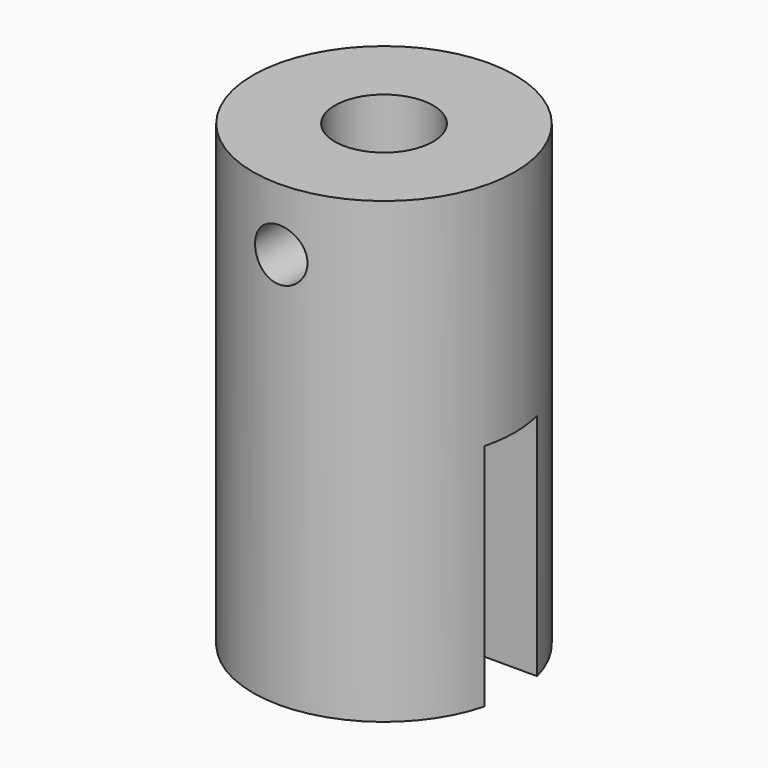
from build123d import *

# Parameters (mm, degrees)
F0_R     = 4
F1_DEPTH = 7
F2_R     = 1.5
F3_DEPTH = 3.8
F4_W     = 10
F4_H     = 2
F5_DEPTH = 7
F6_R     = 0.8
F7_DEPTH = 4.001


with BuildPart() as f1:
    # F0 (on Top) → F1 (new body, symmetric)
    with BuildSketch(Plane.XY):
        Circle(F0_R)
    extrude(amount=F1_DEPTH, both=True)

    # F2 (on face) → F3 (cut)
    with BuildSketch(Plane.XY.offset(7)):
        Circle(F2_R)
    extrude(amount=-F3_DEPTH, mode=Mode.SUBTRACT)

    # F4 (on face) → F5 (cut)
    with BuildSketch(Plane(origin=(0, 0, -7), x_dir=(1, 0, 0), z_dir=(0, 0, -1))):
        Rectangle(F4_W, F4_H)
    extrude(amount=-F5_DEPTH, mode=Mode.SUBTRACT)

    # F6 (on Front) → F7 (cut, through all)
    with BuildSketch(Plane.XZ):
        with Locations((0, 5.1)):
            Circle(F6_R)
    extrude(amount=F7_DEPTH, mode=Mode.SUBTRACT)


solid = f1.part
